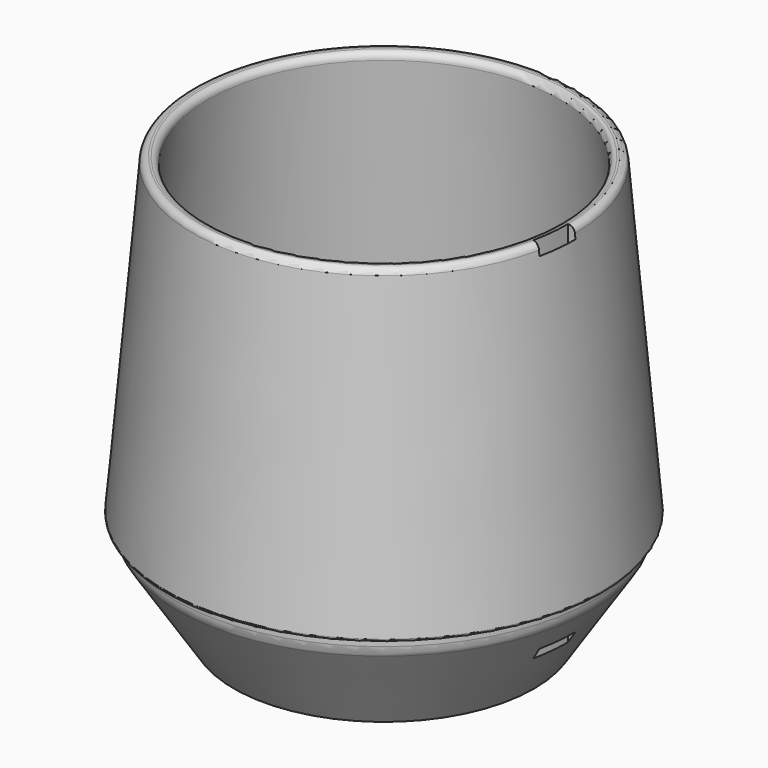
from build123d import *

# Parameters (mm, degrees)
F5_DEPTH = 90


with BuildPart() as f1:
    # F0 (on Front) → F1 (revolve)
    with BuildSketch(Plane.XZ):
        with BuildLine():
            Line((0, 6), (0, 3))
            Line((0, 3), (22.7573593129, 3))
            ThreePointArc((22.7573593129, 3), (23.90540961, 2.7716385975), (24.8786796564, 2.1213203436))
            Line((24.8786796564, 2.1213203436), (27, 0))
            Line((27, 0), (30, 0))
            Line((30, 0), (41.4048944047, 17.4971747949))
            ThreePointArc((41.4048944047, 17.4971747949), (41.8480772311, 18.4553159004), (42, 19.5))
            Line((42, 19.5), (42, 20.5))
            ThreePointArc((42, 20.5), (42.1464466094, 20.8535533906), (42.5, 21))
            Line((42.5, 21), (43.001902651, 21))
            ThreePointArc((43.001902651, 21), (43.3705413194, 21.1622048962), (43.5, 21.5435778714))
            Line((43.5, 21.5435778714), (38.1490735649, 82.7049468925))
            ThreePointArc((38.1490735649, 82.7049468925), (37.68964435, 83.587502203), (36.7407179918, 83.8866975344))
            Line((36.7407179918, 83.8866975344), (36.3422401126, 83.8518352373))
            ThreePointArc((36.3422401126, 83.8518352373), (35.4596848021, 83.3924060224), (35.1604894707, 82.4434796642))
            Line((35.1604894707, 82.4434796642), (40.3749514393, 22.8419066317))
            ThreePointArc((40.3749514393, 22.8419066317), (40.2792079079, 21.6319073126), (39.7938029395, 20.5194113833))
            Line((39.7938029395, 20.5194113833), (30.5099740712, 6.2763354976))
            ThreePointArc((30.5099740712, 6.2763354976), (30.2900150257, 6.0735239847), (30, 6))
            Line((30, 6), (0, 6))
        make_face()
    revolve(axis=Axis((0, 0, 41.3524734462), (0, 0, 1)))

    # F3 (on plane+point) → F5 (cut)
    with BuildSketch(Plane.XY.offset(84)):
        with BuildLine():
            Line((38.24, 0), (36.74, 0))
            ThreePointArc((36.74, 0), (36.5387344358, -3.8403757405), (35.937142851, -7.6386755206))
            Line((35.937142851, -7.6386755206), (37.4043642521, -7.9505430569))
            ThreePointArc((37.4043642521, -7.9505430569), (38.0305172789, -3.9971684354), (38.24, 0))
        make_face()
    extrude(amount=-F5_DEPTH, mode=Mode.SUBTRACT)


solid = f1.part
